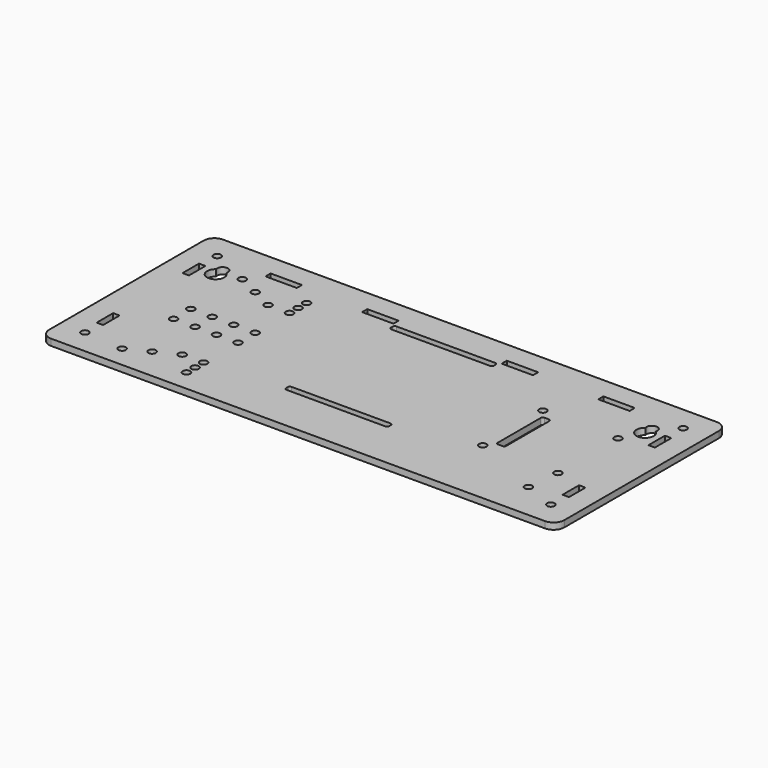
from build123d import *

# Parameters (mm, degrees)
SKETCH004_R      = 1.75
SKETCH004_W      = 4
SKETCH004_H      = 27
PAD_DEPTH        = 3
PAD006_DEPTH     = 3
PAD007_DEPTH     = 3
SKETCH_R         = 1.75
PAD008_DEPTH     = 3
SKETCH003007_R   = 1.75
PAD010_DEPTH     = 3
SKETCH002_W      = 48
SKETCH002_H      = 3
PAD003_DEPTH     = 3
SKETCH003004_R   = 1.75
PAD009_DEPTH     = 3
SKETCH003003_W   = 240
SKETCH003003_H   = 100
SKETCH003003_R   = 1.75
SKETCH003003_W_2 = 3
SKETCH003003_H_2 = 9.6
SKETCH003003_W_3 = 14.6
SKETCH003003_H_3 = 3
PAD001_DEPTH     = 3
FILLET_R         = 5
FILLET001_R      = 1


with BuildPart() as pad:
    # Sketch004 → Pad (new body)
    with BuildSketch(Plane.XY):
        with Locations((60, -17.5)):
            Circle(SKETCH004_R)
        with Locations((60, 17.5)):
            Circle(SKETCH004_R)
        with Locations((95, 17.5)):
            Circle(SKETCH004_R)
        with Locations((95, -17.5)):
            Circle(SKETCH004_R)
        with Locations((65, 0)):
            Rectangle(SKETCH004_W, SKETCH004_H)
    extrude(amount=PAD_DEPTH)


with BuildPart() as pad006:
    # Sketch003006 → Pad006 (new body)
    with BuildSketch(Plane.XY):
        with BuildLine():
            ThreePointArc((97.625206, 30.21875), (100, 23), (102.374794, 30.21875))
            ThreePointArc((102.374794, 30.21875), (100, 33.5), (97.625206, 30.21875))
        make_face()
    extrude(amount=PAD006_DEPTH)


with BuildPart() as pad007:
    # Sketch003005 → Pad007 (new body)
    with BuildSketch(Plane.XY):
        with BuildLine():
            ThreePointArc((-102.374794, 30.21875), (-100, 23), (-97.625206, 30.21875))
            ThreePointArc((-97.625206, 30.21875), (-100, 33.5), (-102.374794, 30.21875))
        make_face()
    extrude(amount=PAD007_DEPTH)


with BuildPart() as pad008:
    # Sketch → Pad008 (new body)
    with BuildSketch(Plane.XY):
        with Locations((-90, 30)):
            Circle(SKETCH_R)
        with Locations((-60, 30)):
            Circle(SKETCH_R)
        with Locations((-90, 0)):
            Circle(SKETCH_R)
        with Locations((-60, 0)):
            Circle(SKETCH_R)
        with Locations((-80, 0)):
            Circle(SKETCH_R)
        with Locations((-80, 25)):
            Circle(SKETCH_R)
        with Locations((-60, 25)):
            Circle(SKETCH_R)
        with Locations((-70, 0)):
            Circle(SKETCH_R)
        with Locations((-70, 20)):
            Circle(SKETCH_R)
        with Locations((-60, 20)):
            Circle(SKETCH_R)
    extrude(amount=PAD008_DEPTH)


with BuildPart() as pad010:
    # Sketch003007 → Pad010 (new body)
    with BuildSketch(Plane.XY):
        with Locations((-108.5, 38.5)):
            Circle(SKETCH003007_R)
        with Locations((-108.5, -38.5)):
            Circle(SKETCH003007_R)
        with Locations((108.5, -38.5)):
            Circle(SKETCH003007_R)
        with Locations((108.5, 38.5)):
            Circle(SKETCH003007_R)
    extrude(amount=PAD010_DEPTH)


with BuildPart() as pad003:
    # Sketch002 → Pad003 (new body)
    with BuildSketch(Plane.XY):
        with Locations((0, 34.5)):
            Rectangle(SKETCH002_W, SKETCH002_H)
        with Locations((0, -26.5)):
            Rectangle(SKETCH002_W, SKETCH002_H)
    extrude(amount=PAD003_DEPTH)


with BuildPart() as pad009:
    # Sketch003004 → Pad009 (new body)
    with BuildSketch(Plane.XY):
        with Locations((-90, -40)):
            Circle(SKETCH003004_R)
        with Locations((-60, -40)):
            Circle(SKETCH003004_R)
        with Locations((-90, -10)):
            Circle(SKETCH003004_R)
        with Locations((-60, -10)):
            Circle(SKETCH003004_R)
        with Locations((-80, -10)):
            Circle(SKETCH003004_R)
        with Locations((-80, -35)):
            Circle(SKETCH003004_R)
        with Locations((-60, -35)):
            Circle(SKETCH003004_R)
        with Locations((-70, -10)):
            Circle(SKETCH003004_R)
        with Locations((-70, -30)):
            Circle(SKETCH003004_R)
        with Locations((-60, -30)):
            Circle(SKETCH003004_R)
    extrude(amount=PAD009_DEPTH)


with BuildPart() as fillet001:
    # Sketch003003 → Pad001 (new body)
    with BuildSketch(Plane.XY):
        Rectangle(SKETCH003003_W, SKETCH003003_H)
        with Locations((93.5, -32.8)):
            Circle(SKETCH003003_R, mode=Mode.SUBTRACT)
        with Locations((108.5, -25)):
            Rectangle(SKETCH003003_W_2, SKETCH003003_H_2, mode=Mode.SUBTRACT)
        with Locations((108.5, 25)):
            Rectangle(SKETCH003003_W_2, SKETCH003003_H_2, mode=Mode.SUBTRACT)
        with Locations((-108.5, 25)):
            Rectangle(SKETCH003003_W_2, SKETCH003003_H_2, mode=Mode.SUBTRACT)
        with Locations((-108.5, -25)):
            Rectangle(SKETCH003003_W_2, SKETCH003003_H_2, mode=Mode.SUBTRACT)
        with Locations((-77.5, 38.5)):
            Rectangle(SKETCH003003_W_3, SKETCH003003_H_3, mode=Mode.SUBTRACT)
        with Locations((-32.5, 38.5)):
            Rectangle(SKETCH003003_W_3, SKETCH003003_H_3, mode=Mode.SUBTRACT)
        with Locations((32.5, 38.5)):
            Rectangle(SKETCH003003_W_3, SKETCH003003_H_3, mode=Mode.SUBTRACT)
        with Locations((77.5, 38.5)):
            Rectangle(SKETCH003003_W_3, SKETCH003003_H_3, mode=Mode.SUBTRACT)
    extrude(amount=PAD001_DEPTH)

    # Cut: cut Pad009
    add(pad009.part, mode=Mode.SUBTRACT)

    # Cut001: cut Pad003
    add(pad003.part, mode=Mode.SUBTRACT)

    # Cut002: cut Pad010
    add(pad010.part, mode=Mode.SUBTRACT)

    # Cut003: cut Pad008
    add(pad008.part, mode=Mode.SUBTRACT)

    # Cut004: cut Pad007
    add(pad007.part, mode=Mode.SUBTRACT)

    # Cut005: cut Pad006
    add(pad006.part, mode=Mode.SUBTRACT)

    # Cut006: cut Pad
    add(pad.part, mode=Mode.SUBTRACT)

    # Fillet
    fillet_edges = [fillet001.edges().sort_by_distance(p)[0] for p in [
        (-120, 50, 1.5),
        (120, 50, 1.5),
        (-120, -50, 1.5),
        (120, -50, 1.5),
    ]]
    fillet(fillet_edges, radius=FILLET_R)

    # Fillet001
    fillet001_edges = [fillet001.edges().sort_by_distance(p)[0] for p in [
        (-24, -28, 1.5),
        (-24, -25, 1.5),
        (24, -28, 1.5),
        (24, -25, 1.5),
        (-24, 33, 1.5),
        (-24, 36, 1.5),
        (24, 33, 1.5),
        (24, 36, 1.5),
        (63, -13.5, 1.5),
        (63, 13.5, 1.5),
        (67, -13.5, 1.5),
        (67, 13.5, 1.5),
    ]]
    fillet(fillet001_edges, radius=FILLET001_R)


solid = fillet001.part
